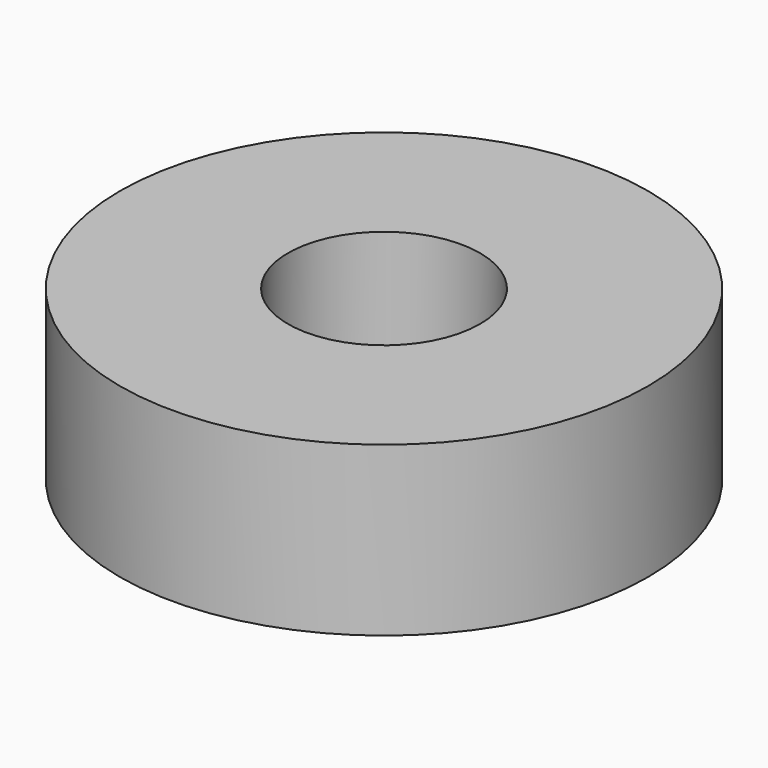
from build123d import *

# Parameters (mm, degrees)
CYLINDER001_R     = 4
CYLINDER001_DEPTH = 7
CYLINDER_R        = 11
CYLINDER_DEPTH    = 7


with BuildPart() as cylinder001:
    # Cylinder001 → Cylinder001 (new body)
    with BuildSketch(Plane.XY):
        Circle(CYLINDER001_R)
    extrude(amount=CYLINDER001_DEPTH)


with BuildPart() as cut:
    # Cylinder → Cylinder (new body)
    with BuildSketch(Plane.XY):
        Circle(CYLINDER_R)
    extrude(amount=CYLINDER_DEPTH)

    # Cut: cut Cylinder001
    add(cylinder001.part, mode=Mode.SUBTRACT)


with BuildPart() as cut_1:
    # Cut placement: moved
    add(cut.part.moved(Location((0, 0, 61))))


solid = cut_1.part
